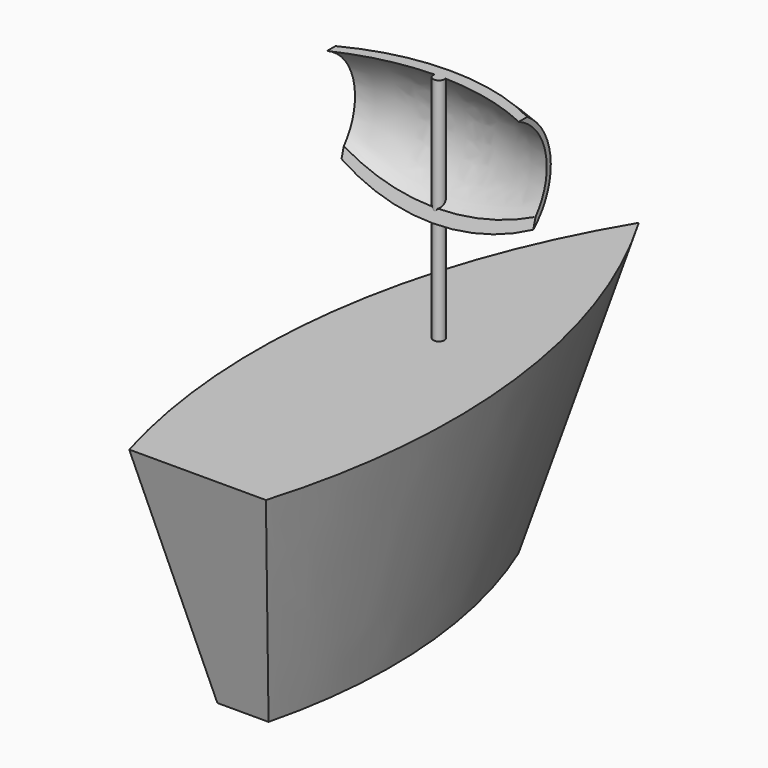
from build123d import *

# Parameters (mm, degrees)
F4_R     = 0.621052
F5_DEPTH = 25.4


with BuildPart() as f3:
    # F0 (on Top) → F3 section 0
    with BuildSketch(Plane.XY):
        with BuildLine():
            ThreePointArc((0, 18.184091), (-4.48363, -0.639026), (-2.805989, -19.915909))
            Line((-2.805989, -19.915909), (2.85146, -19.915909))
            ThreePointArc((2.85146, -19.915909), (4.506652, -0.635328), (0, 18.184091))
        make_face()
    # F2 (on offset) → F3 section 1
    with BuildSketch(Plane.XY.offset(25.4)):
        with BuildLine():
            ThreePointArc((0, 34.804691), (-10.264244, 5.338028), (-7.867152, -25.77295))
            Line((-7.867152, -25.77295), (7.245407, -25.77295))
            ThreePointArc((7.245407, -25.77295), (9.944669, 5.272011), (0, 34.804691))
        make_face()
    loft()

    # F4 (on face) → F5 (join)
    with BuildSketch(Plane.XY.offset(25.4)):
        with Locations((0, 7.182024)):
            Circle(F4_R)
    extrude(amount=F5_DEPTH)

    # F9: sweep along a path in F8
    with BuildLine(Plane.YZ) as f9_path:
        ThreePointArc((6.253172, 36.976661), (10.944831, 43.26766), (8.742062, 50.8))
    # F7 (on offset) → F9 (sweep)
    with BuildSketch(Plane.XY.offset(50.8)):
        with BuildLine():
            ThreePointArc((-10.597052, 4.972847), (0, 7.3424), (10.597052, 4.972847))
            Line((10.597052, 4.972847), (10.597052, 6.139166))
            ThreePointArc((10.597052, 6.139166), (0, 8.742062), (-10.597052, 6.139166))
            Line((-10.597052, 6.139166), (-10.597052, 4.972847))
        make_face()
    sweep(path=f9_path.line)


solid = f3.part
